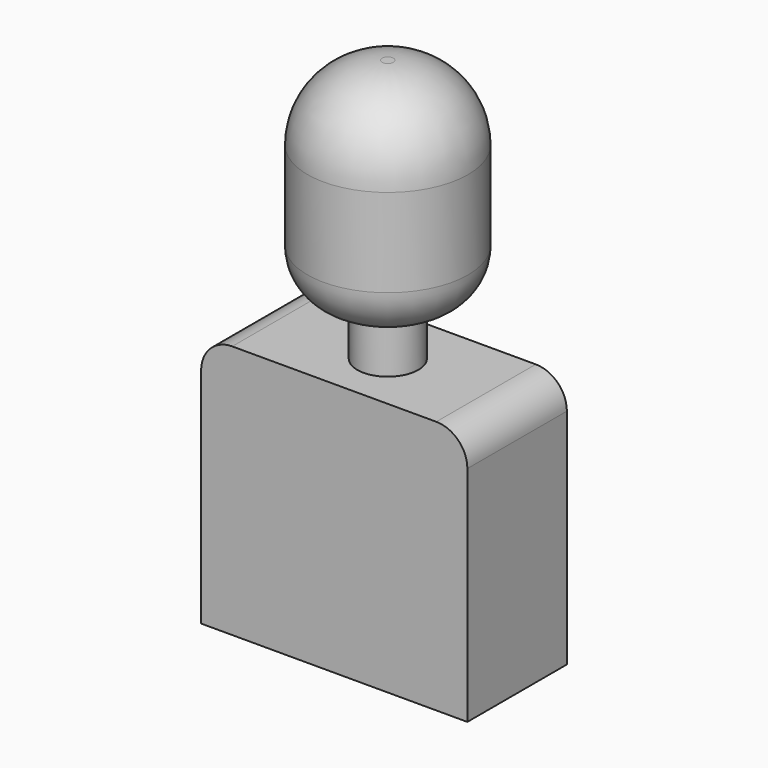
from build123d import *

# Parameters (mm, degrees)
F0_R      = 16.395857
F1_DEPTH  = 43.434
F2_R      = 15.24
F3_R      = 10.16
F1_FACE_R = 6.235857
F4_DEPTH  = 12.7
F6_DEPTH  = 25.4


with BuildPart() as f1:
    # F0 (on Top) → F1 (new body)
    with BuildSketch(Plane.XY):
        with Locations((-29.487422, 18.542171)):
            Circle(F0_R)
    extrude(amount=F1_DEPTH)

    # F2
    f2_edges = [f1.edges().sort_by_distance(p)[0] for p in [
        (-45.883279, 18.542171, 43.434),
    ]]
    fillet(f2_edges, radius=F2_R)

    # F3
    f3_edges = [f1.edges().sort_by_distance(p)[0] for p in [
        (-45.883279, 18.542171, 0),
    ]]
    fillet(f3_edges, radius=F3_R)

    # F1_face (on face) → F4 (join)
    with BuildSketch(Plane(origin=(-29.487422, 18.542171, 0), x_dir=(1, 0, 0), z_dir=(0, 0, -1))):
        Circle(F1_FACE_R)
    extrude(amount=F4_DEPTH)


with BuildPart() as f6:
    # F5 (on Front) → F6 (new body)
    with BuildSketch(Plane.XZ):
        with BuildLine():
            Line((-8.053174, -10.223682), (-49.727909, -10.223682))
            ThreePointArc((-49.727909, -10.223682), (-54.218037, -12.083554), (-56.077909, -16.573682))
            Line((-56.077909, -16.573682), (-56.077909, -62.12543))
            Line((-56.077909, -62.12543), (-1.703174, -62.12543))
            Line((-1.703174, -62.12543), (-1.703174, -16.573682))
            ThreePointArc((-1.703174, -16.573682), (-3.563046, -12.083554), (-8.053174, -10.223682))
        make_face()
    extrude(amount=F6_DEPTH)


with BuildPart() as f6_1:
    # F7: moved
    add(f6.part.moved(Location((-1.778, 31.75, 0))))


solid = Compound([f1.part, f6_1.part])
